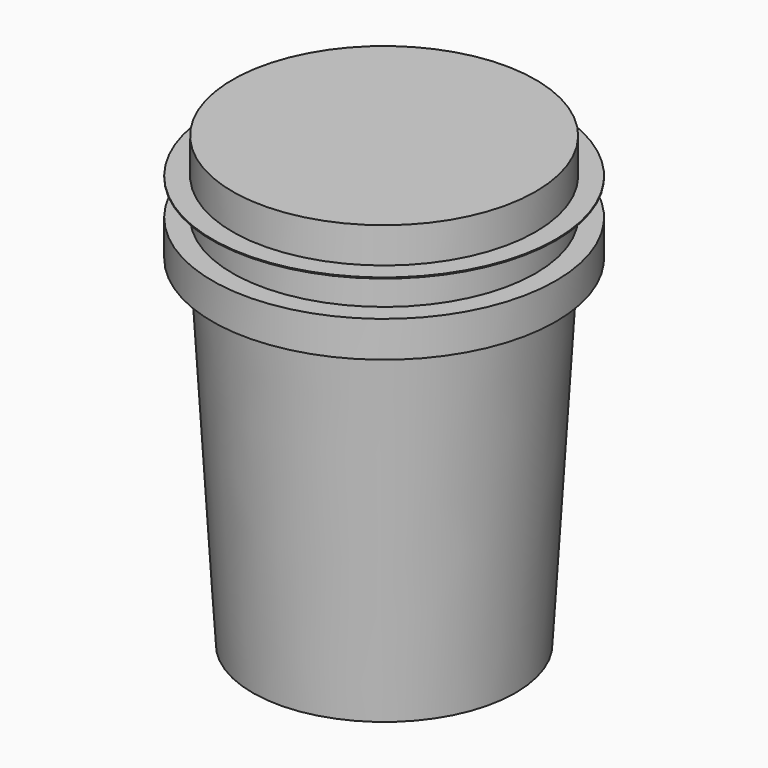
from build123d import *

# Parameters (mm, degrees)
F0_W = 149.85
F0_H = 35.07


with BuildPart() as f1:
    # F0 (on Front) → F1 (revolve)
    with BuildSketch(Plane.XZ):
        Polygon((0, 336.1), (0, 0), (130, 0), (149.85, 336.1), align=None)
        Polygon((0, 371.666667), (0, 336.1), (149.85, 336.1), (169.85, 336.1), (169.85, 371.666667), (149.85, 371.666667), align=None)
        with Locations((74.925, 389.201667)):
            Rectangle(F0_W, F0_H)
        Polygon((0, 407.736667), (0, 406.736667), (149.85, 406.736667), (169.85, 406.736667), (169.85, 407.736667), (149.85, 407.736667), align=None)
        with Locations((74.925, 425.271667)):
            Rectangle(F0_W, F0_H)
    revolve(axis=Axis((0, 0, 168.05), (0, 0, 1)))


solid = f1.part
